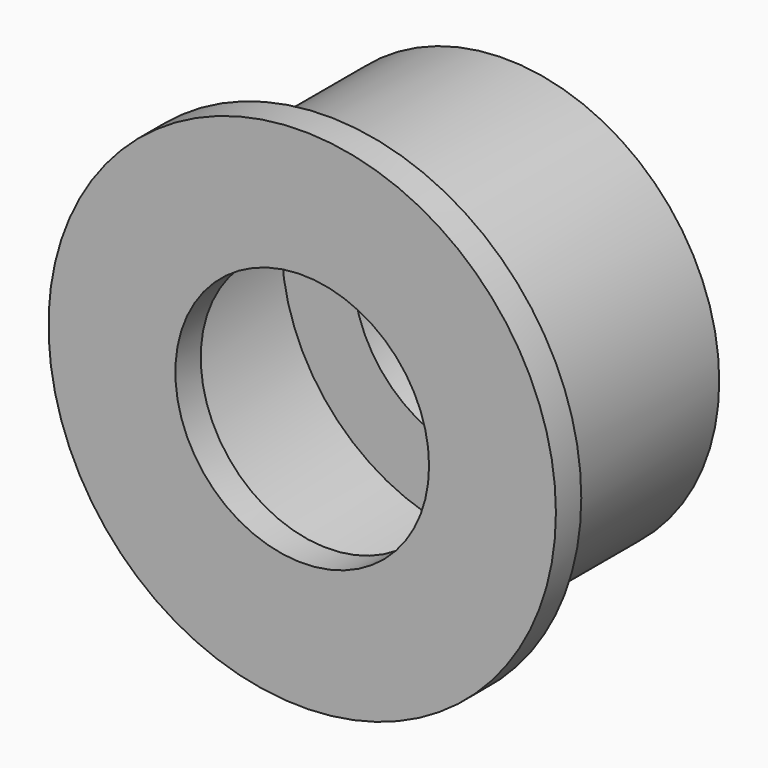
from build123d import *

# Parameters (mm, degrees)
F0_R     = 13.5
F0_R_2   = 8
F1_DEPTH = 14
F2_R     = 12.5
F3_DEPTH = 12
F4_R     = 16
F4_R_2   = 8
F5_DEPTH = 2


with BuildPart() as f1:
    # F0 (on Front) → F1 (new body)
    with BuildSketch(Plane.XZ):
        Circle(F0_R)
        Circle(F0_R_2, mode=Mode.SUBTRACT)
    extrude(amount=F1_DEPTH)

    # F2 (on face) → F3 (cut)
    with BuildSketch(Plane.XZ.offset(14)):
        Circle(F2_R)
    extrude(amount=-F3_DEPTH, mode=Mode.SUBTRACT)

    # F4 (on face) → F5 (join)
    with BuildSketch(Plane.XZ.offset(14)):
        Circle(F4_R)
        Circle(F4_R_2, mode=Mode.SUBTRACT)
    extrude(amount=F5_DEPTH)


solid = f1.part
